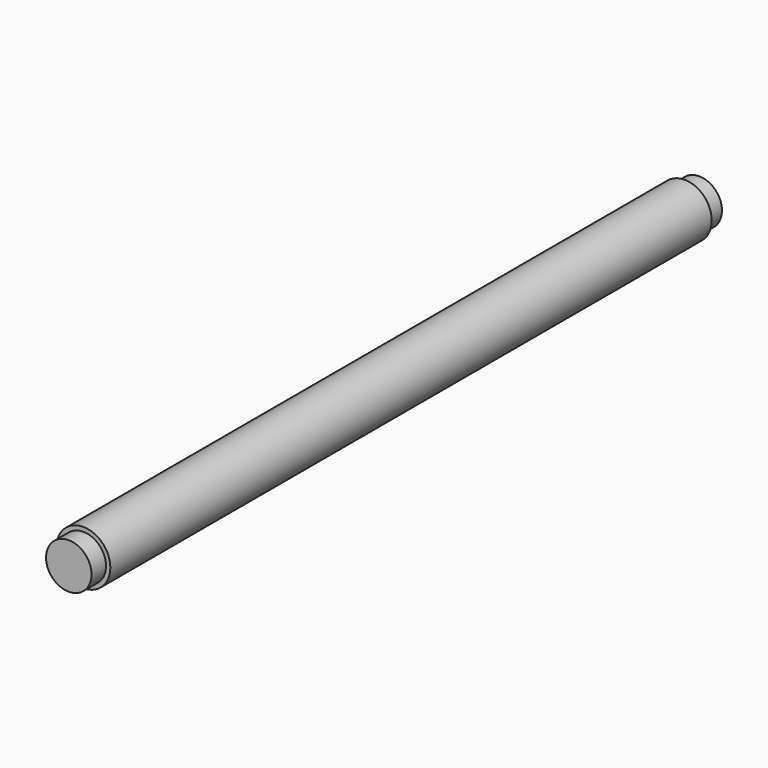
from build123d import *

# Parameters (mm, degrees)
F0_R     = 14.859199
F1_DEPTH = 433.5
F2_R     = 14.859199
F2_R_2   = 12.5
F3_DEPTH = 10
F4_R     = 14.859199
F4_R_2   = 12.5
F5_DEPTH = 10


with BuildPart() as f1:
    # F0 (on Front) → F1 (new body)
    with BuildSketch(Plane.XZ):
        Circle(F0_R)
    extrude(amount=F1_DEPTH)

    # F2 (on face) → F3 (cut)
    with BuildSketch(Plane(origin=(0, 0, 0), x_dir=(-1, 0, 0), z_dir=(0, 1, 0))):
        Circle(F2_R)
        Circle(F2_R_2, mode=Mode.SUBTRACT)
    extrude(amount=-F3_DEPTH, mode=Mode.SUBTRACT)

    # F4 (on face) → F5 (cut)
    with BuildSketch(Plane.XZ.offset(433.5)):
        Circle(F4_R)
        Circle(F4_R_2, mode=Mode.SUBTRACT)
    extrude(amount=-F5_DEPTH, mode=Mode.SUBTRACT)


solid = f1.part
